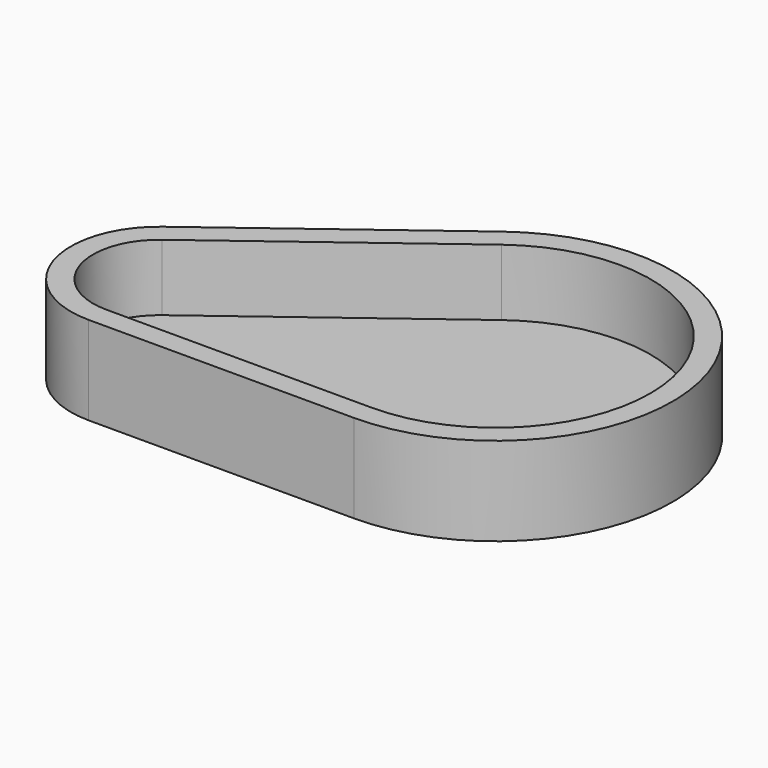
from build123d import *

# Parameters (mm, degrees)
F1_DEPTH = 6.35
F4_DEPTH = 19.05


with BuildPart() as f1:
    # F0 (on Top) → F1 (new body)
    with BuildSketch(Plane.XY):
        with BuildLine():
            Line((71.12, 91.44), (10.16, 45.72))
            ThreePointArc((10.16, 45.72), (1.303444, 17.367815), (25.4, 0))
            Line((25.4, 0), (101.6, 0))
            ThreePointArc((101.6, 0), (149.793112, 66.864371), (71.12, 91.44))
        make_face()
    extrude(amount=F1_DEPTH)

    # F3 (on face) → F4 (join)
    with BuildSketch(Plane.XY.offset(6.35)):
        with BuildLine():
            Line((71.12, 91.44), (10.16, 45.72))
            ThreePointArc((10.16, 45.72), (1.303444, 17.367815), (25.4, 0))
            Line((25.4, 0), (101.6, 0))
            ThreePointArc((101.6, 0), (149.793112, 66.864371), (71.12, 91.44))
        make_face()
        with BuildLine():
            ThreePointArc((25.4, 6.35), (7.327583, 19.375861), (13.97, 40.64))
            Line((13.97, 40.64), (74.93, 86.36))
            ThreePointArc((74.93, 86.36), (143.768973, 64.856324), (101.6, 6.35))
            Line((101.6, 6.35), (25.4, 6.35))
        make_face(mode=Mode.SUBTRACT)
    extrude(amount=F4_DEPTH)


solid = f1.part
